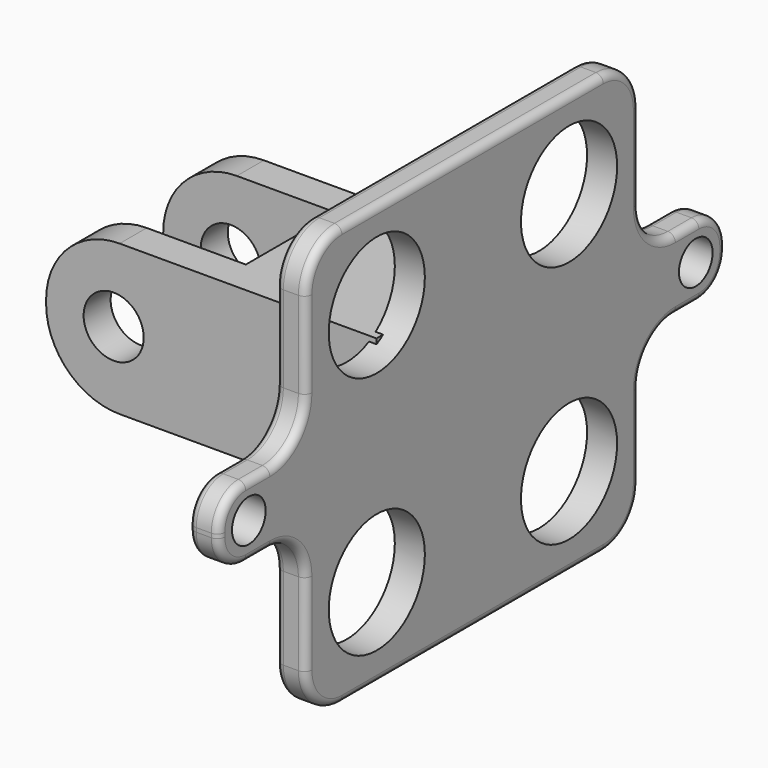
from build123d import *

# Parameters (mm, degrees)
BOX162_W                  = 16
BOX162_H                  = 7.5
BOX162_DEPTH              = 12
CYLINDER240_R             = 2
CYLINDER240_DEPTH         = 15
BOX163_W                  = 22
BOX163_H                  = 12
BOX163_DEPTH              = 10
FILLET099_R               = 4.9
FILLET099_PLACEMENT_ANGLE = 180
CYLINDER234_R             = 4
CYLINDER234_DEPTH         = 10
CYLINDER236_R             = 4
CYLINDER236_DEPTH         = 10
CYLINDER237_R             = 4
CYLINDER237_DEPTH         = 10
CYLINDER020_R             = 4
CYLINDER020_DEPTH         = 10
CYLINDER019_R             = 1.4
CYLINDER019_DEPTH         = 10
CYLINDER235_R             = 1.4
CYLINDER235_DEPTH         = 10
BOX155_W                  = 5
BOX155_H                  = 13
BOX155_DEPTH              = 10
FILLET009_R               = 3
BOX157_W                  = 5
BOX157_H                  = 13
BOX157_DEPTH              = 10
FILLET007_R               = 3
BOX156_W                  = 5
BOX156_H                  = 13
BOX156_DEPTH              = 10
FILLET008_R               = 3
BOX154_W                  = 5
BOX154_H                  = 13
BOX154_DEPTH              = 10
FILLET004_R               = 3
BOX153_W                  = 2
BOX153_H                  = 28
BOX153_DEPTH              = 42.2
FILLET010_R               = 3
FILLET011_R               = 2.24
FILLET012_R               = 2.24
FILLET013_R               = 0.5
FILLET096_R               = 0.5
CUT006_PLACEMENT_ANGLE    = 90


with BuildPart() as obj1:
    # Box162 → Box162 (new body)
    with BuildSketch(Plane(origin=(28.5, -3.75, -11.5), x_dir=(1, 0, 0), z_dir=(0, 0, 1))):
        with Locations((8, 3.75)):
            Rectangle(BOX162_W, BOX162_H)
    extrude(amount=BOX162_DEPTH)


with BuildPart() as fusion160:
    # Cylinder240 → Cylinder240 (new body)
    with BuildSketch(Plane(origin=(37.5, 7.5, -5.5), x_dir=(1, 0, 0), z_dir=(0, -1, 0))):
        Circle(CYLINDER240_R)
    extrude(amount=CYLINDER240_DEPTH)

    # Fusion160: union obj1
    add(obj1.part)


with BuildPart() as cut110:
    # Box163 → Box163 (new body)
    with BuildSketch(Plane(origin=(27, -3.5, -10.5), x_dir=(1, 0, 0), z_dir=(0, 0, 1))):
        with Locations((11, 6)):
            Rectangle(BOX163_W, BOX163_H)
    extrude(amount=BOX163_DEPTH)

    # Fillet099
    fillet099_edges = [cut110.edges().sort_by_distance(p)[0] for p in [
        (49, 2.5, -0.5),
        (49, 2.5, -10.5),
    ]]
    fillet(fillet099_edges, radius=FILLET099_R)


with BuildPart() as cut110_1:
    # Fillet099 placement: moved
    add(cut110.part.moved(Location((82, -2.5, -11))).rotate(Axis((82, -2.5, -11), (0, 1, 0)), FILLET099_PLACEMENT_ANGLE))

    # Cut110: cut Fusion160
    add(fusion160.part, mode=Mode.SUBTRACT)


with BuildPart() as zylinder234:
    # Cylinder234 → Cylinder234 (new body)
    with BuildSketch(Plane(origin=(5.723, -13.7, 22.15), x_dir=(0, 0, 1), z_dir=(-1, 0, 0))):
        Circle(CYLINDER234_R)
    extrude(amount=CYLINDER234_DEPTH)


with BuildPart() as zylinder238:
    # Cylinder236 → Cylinder236 (new body)
    with BuildSketch(Plane(origin=(5.723, 2.55, 6.15), x_dir=(0, 0, 1), z_dir=(-1, 0, 0))):
        Circle(CYLINDER236_R)
    extrude(amount=CYLINDER236_DEPTH)


with BuildPart() as zylinder239:
    # Cylinder237 → Cylinder237 (new body)
    with BuildSketch(Plane(origin=(5.723, -13.7, 6.15), x_dir=(0, 0, 1), z_dir=(-1, 0, 0))):
        Circle(CYLINDER237_R)
    extrude(amount=CYLINDER237_DEPTH)


with BuildPart() as fusion156:
    # Cylinder020 → Cylinder020 (new body)
    with BuildSketch(Plane(origin=(5.723, 2.55, 22.15), x_dir=(0, 0, 1), z_dir=(-1, 0, 0))):
        Circle(CYLINDER020_R)
    extrude(amount=CYLINDER020_DEPTH)

    # Fusion156: union Zylinder234, Zylinder238, Zylinder239
    add(zylinder234.part)
    add(zylinder238.part)
    add(zylinder239.part)


with BuildPart() as zylinder237:
    # Cylinder019 → Cylinder019 (new body)
    with BuildSketch(Plane(origin=(7.95, -5.4, -4.5), x_dir=(0, 0, 1), z_dir=(-1, 0, 0))):
        Circle(CYLINDER019_R)
    extrude(amount=CYLINDER019_DEPTH)


with BuildPart() as fusion154:
    # Cylinder235 → Cylinder235 (new body)
    with BuildSketch(Plane(origin=(7.85, -5.4, 32.7), x_dir=(0, 0, 1), z_dir=(-1, 0, 0))):
        Circle(CYLINDER235_R)
    extrude(amount=CYLINDER235_DEPTH)

    # Fusion154: union Zylinder237
    add(zylinder237.part)


with BuildPart() as fillet009:
    # Box155 → Box155 (new body)
    with BuildSketch(Plane(origin=(-1.5, -20.75, 28), x_dir=(1, 0, 0), z_dir=(0, 0, 1))):
        with Locations((2.5, 6.5)):
            Rectangle(BOX155_W, BOX155_H)
    extrude(amount=BOX155_DEPTH)

    # Fillet009
    fillet009_edges = [fillet009.edges().sort_by_distance(p)[0] for p in [
        (1, -7.75, 28),
    ]]
    fillet(fillet009_edges, radius=FILLET009_R)


with BuildPart() as fillet007:
    # Box157 → Box157 (new body)
    with BuildSketch(Plane(origin=(-1.5, -3, -9.75), x_dir=(1, 0, 0), z_dir=(0, 0, 1))):
        with Locations((2.5, 6.5)):
            Rectangle(BOX157_W, BOX157_H)
    extrude(amount=BOX157_DEPTH)

    # Fillet007
    fillet007_edges = [fillet007.edges().sort_by_distance(p)[0] for p in [
        (1, -3, 0.25),
    ]]
    fillet(fillet007_edges, radius=FILLET007_R)


with BuildPart() as fillet008:
    # Box156 → Box156 (new body)
    with BuildSketch(Plane(origin=(-1.5, -20.75, -9.75), x_dir=(1, 0, 0), z_dir=(0, 0, 1))):
        with Locations((2.5, 6.5)):
            Rectangle(BOX156_W, BOX156_H)
    extrude(amount=BOX156_DEPTH)

    # Fillet008
    fillet008_edges = [fillet008.edges().sort_by_distance(p)[0] for p in [
        (1, -7.75, 0.25),
    ]]
    fillet(fillet008_edges, radius=FILLET008_R)


with BuildPart() as fusion153:
    # Box154 → Box154 (new body)
    with BuildSketch(Plane(origin=(-1.5, -3, 28), x_dir=(1, 0, 0), z_dir=(0, 0, 1))):
        with Locations((2.5, 6.5)):
            Rectangle(BOX154_W, BOX154_H)
    extrude(amount=BOX154_DEPTH)

    # Fillet004
    fillet004_edges = [fusion153.edges().sort_by_distance(p)[0] for p in [
        (1, -3, 28),
    ]]
    fillet(fillet004_edges, radius=FILLET004_R)

    # Fusion153: union Fillet009, Fillet007, Fillet008
    add(fillet009.part)
    add(fillet007.part)
    add(fillet008.part)


with BuildPart() as fusion161:
    # Box153 → Box153 (new body)
    with BuildSketch(Plane(origin=(0, -19.5, -7), x_dir=(1, 0, 0), z_dir=(0, 0, 1))):
        with Locations((1, 14)):
            Rectangle(BOX153_W, BOX153_H)
    extrude(amount=BOX153_DEPTH)

    # Cut004: cut Fusion153
    add(fusion153.part, mode=Mode.SUBTRACT)

    # Fillet010
    fillet010_edges = [fusion161.edges().sort_by_distance(p)[0] for p in [
        (1, -19.5, 28),
        (1, -19.5, 0.25),
        (1, 8.5, 28),
        (1, 8.5, 0.25),
    ]]
    fillet(fillet010_edges, radius=FILLET010_R)

    # Fillet011
    fillet011_edges = [fusion161.edges().sort_by_distance(p)[0] for p in [
        (1, -7.75, 35.2),
        (1, -3, 35.2),
    ]]
    fillet(fillet011_edges, radius=FILLET011_R)

    # Fillet012
    fillet012_edges = [fusion161.edges().sort_by_distance(p)[0] for p in [
        (1, -7.75, -7),
        (1, -3, -7),
    ]]
    fillet(fillet012_edges, radius=FILLET012_R)

    # Cut106: cut Fusion154
    add(fusion154.part, mode=Mode.SUBTRACT)

    # Fillet013
    fillet013_edges = [fusion161.edges().sort_by_distance(p)[0] for p in [
        (2, -13.625, 0.25),
        (2, -18.62132, 1.12868),
        (2, -19.5, 14.125),
        (2, -18.62132, 27.12132),
        (2, -13.625, 28),
        (2, -8.62868, 28.87868),
        (2, -7.75, 31.98),
    ]]
    fillet(fillet013_edges, radius=FILLET013_R)

    # Fillet096
    fillet096_edges = [fusion161.edges().sort_by_distance(p)[0] for p in [
        (0, -19.5, 14.125),
    ]]
    fillet(fillet096_edges, radius=FILLET096_R)

    # Cut006: cut Fusion156
    add(fusion156.part, mode=Mode.SUBTRACT)


with BuildPart() as fusion161_1:
    # Cut006 placement: moved
    add(fusion161.part.moved(Location((54.5, -14, -11))).rotate(Axis((54.5, -14, -11), (-1, 0, 0)), CUT006_PLACEMENT_ANGLE))

    # Fusion161: union Cut110
    add(cut110_1.part)


solid = fusion161_1.part
